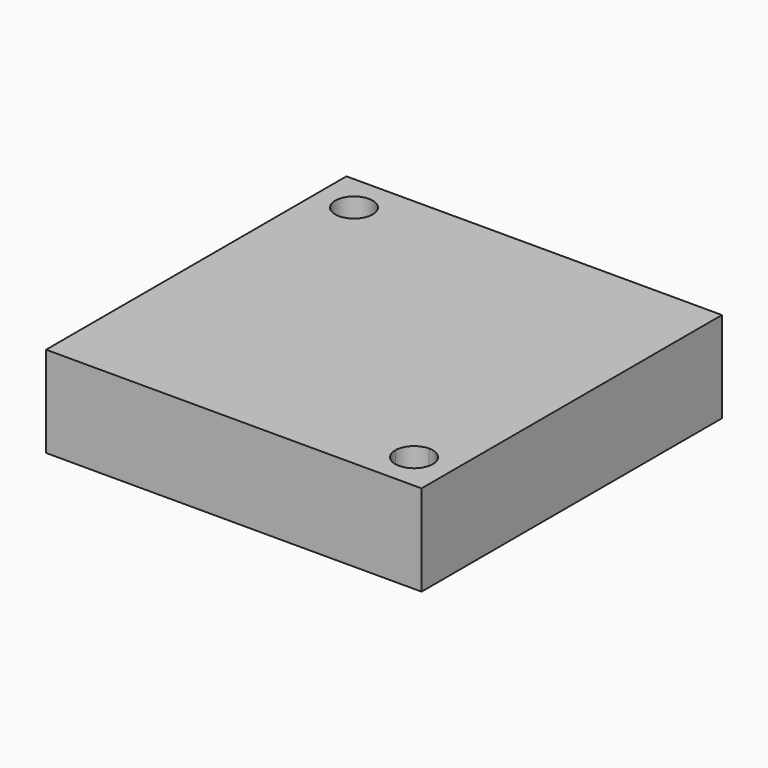
from build123d import *

# Parameters (mm, degrees)
F1_W     = 127
F1_H     = 38.1
F2_DEPTH = 63.5
F5_DEPTH = 50.8
F7_DEPTH = 50.8


with BuildPart() as f2:
    # F1 (on Front) → F2 (new body, symmetric)
    with BuildSketch(Plane.XZ):
        with Locations((-0.005746, 19.05)):
            Rectangle(F1_W, F1_H)
    extrude(amount=F2_DEPTH, both=True)

    # F0 (on Front) → F3 (revolve, cut)
    with BuildSketch(Plane.XZ):
        Polygon((48.160355, 7.332348), (38.1, 1.524), (0, 1.524), (0, 0), (92.567263, 0), (92.567263, 7.332348), align=None)
    revolve(axis=Axis((0, 0, 0.762), (0, 0, -1)), mode=Mode.SUBTRACT)

    # F4 (on Top) → F5 (cut, symmetric)
    with BuildSketch(Plane.XY):
        with BuildLine():
            Line((-50.8, 44.45), (-50.8, 50.8))
            Line((-50.8, 50.8), (-44.45, 50.8))
            ThreePointArc((-44.45, 50.8), (-55.290128, 55.290128), (-50.8, 44.45))
        make_face()
        with BuildLine():
            Line((-44.45, 50.8), (-50.8, 50.8))
            Line((-50.8, 50.8), (-50.8, 44.45))
            ThreePointArc((-50.8, 44.45), (-46.309872, 46.309872), (-44.45, 50.8))
        make_face()
    extrude(amount=F5_DEPTH, both=True, mode=Mode.SUBTRACT)

    # F6 (on Top) → F7 (cut, symmetric)
    with BuildSketch(Plane.XY):
        with BuildLine():
            ThreePointArc((50.8, -44.45), (46.309872, -46.309872), (44.45, -50.8))
            Line((44.45, -50.8), (50.8, -50.8))
            Line((50.8, -50.8), (50.8, -44.45))
        make_face()
        with BuildLine():
            Line((50.8, -50.8), (44.45, -50.8))
            ThreePointArc((44.45, -50.8), (50.8, -57.15), (57.15, -50.8))
            ThreePointArc((57.15, -50.8), (55.290128, -46.309872), (50.8, -44.45))
            Line((50.8, -44.45), (50.8, -50.8))
        make_face()
    extrude(amount=F7_DEPTH, both=True, mode=Mode.SUBTRACT)


solid = f2.part
